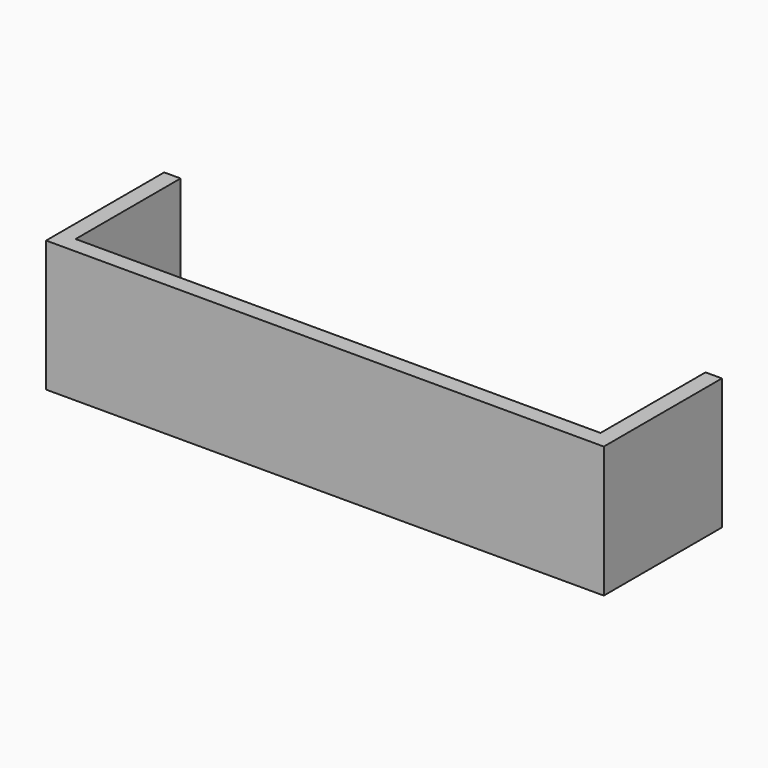
from build123d import *

# Parameters (mm, degrees)
F1_DEPTH  = 2.5
F2_R      = 1.5
F3_DEPTH  = 2.501
F4_W      = 20
F4_H      = 2.5
F5_DEPTH  = 5
F7_W      = 80
F7_H      = 20
F8_DEPTH  = 2.5
F9_W      = 22.5
F9_H      = 20
F10_DEPTH = 2.5


with BuildPart() as f1:
    # F0 (on Top) → F1 (new body)
    with BuildSketch(Plane.XY):
        Polygon((35, -3), (35, 3), (-35, 3), (-35, -3), (-35, -23), (35, -23), align=None)
    extrude(amount=F1_DEPTH)

    # F2 (on face) → F3 (cut, through all)
    with BuildSketch(Plane(origin=(0, 0, 0), x_dir=(1, 0, 0), z_dir=(0, 0, -1))):
        with Locations((-25, 0)):
            Circle(F2_R)
        with Locations((25, 0)):
            Circle(F2_R)
    extrude(amount=-F3_DEPTH, mode=Mode.SUBTRACT)

    # F4 (on face) → F5 (join)
    with BuildSketch(Plane(origin=(-35, 0, 0), x_dir=(0, -1, 0), z_dir=(-1, 0, 0))):
        with Locations((13, 1.25)):
            Rectangle(F4_W, F4_H)
    extrude(amount=F5_DEPTH)

    # F6: F1 across plane


with BuildPart() as f1_1:
    add(f1.part)
    add(f1.part.mirror(Plane.YZ))

    # F7 (on face) → F8 (join)
    with BuildSketch(Plane.XZ.offset(23)):
        with Locations((0, 10)):
            Rectangle(F7_W, F7_H)
    extrude(amount=F8_DEPTH)

    # F9 (on face) → F10 (join)
    with BuildSketch(Plane.YZ.offset(40)):
        with Locations((-14.25, 10)):
            Rectangle(F9_W, F9_H)
    extrude(amount=F10_DEPTH)

    # F11: F1 across plane


with BuildPart() as f1_2:
    add(f1_1.part)
    add(f1_1.part.mirror(Plane.YZ))


solid = f1_2.part
